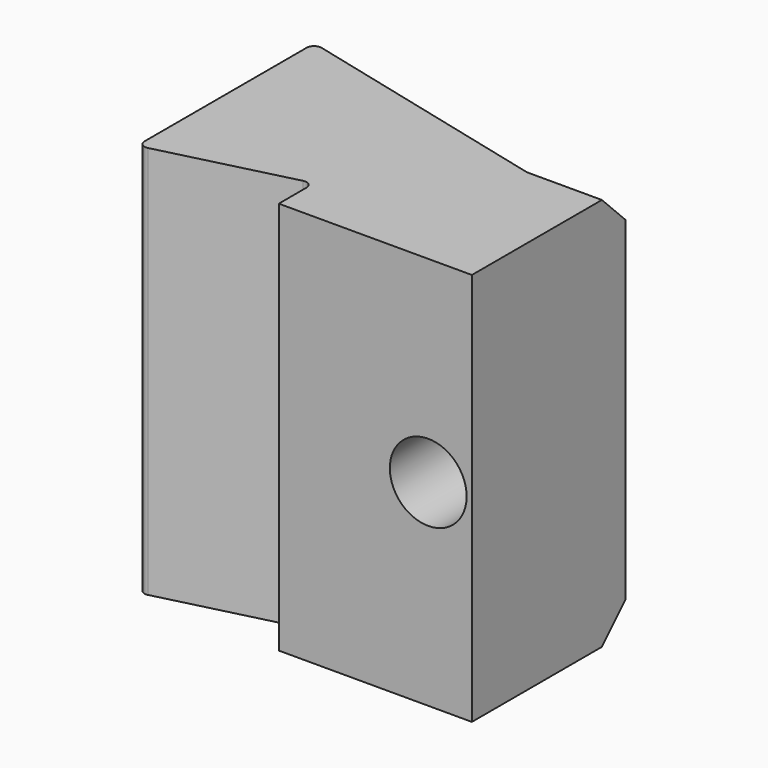
from build123d import *

# Parameters (mm, degrees)
SKETCH002_W     = 24.115805
SKETCH002_H     = 45
PAD001_DEPTH    = 8
POCKET001_DEPTH = 45.001
SKETCH004_W     = 9.473238
SKETCH004_H     = 26.16662
SKETCH004_W_2   = 10.488205
SKETCH004_H_2   = 27.344377
POCKET002_DEPTH = 23.073659
SKETCH005_R     = 2.6
POCKET003_DEPTH = 15.501
CHAMFER_SIZE    = 2
SKETCH007_W     = 5.2
SKETCH007_H     = 7
POCKET004_DEPTH = 16.5
FILLET_R        = 0.5


with BuildPart() as part:
    # Sketch002 → Pad001 (new body, symmetric)
    with BuildSketch(Plane.XZ):
        with Locations((12.214756, 0)):
            Rectangle(SKETCH002_W, SKETCH002_H)
    extrude(amount=PAD001_DEPTH, both=True)

    # Sketch003 (on Face1 of Pad001) → Pocket001 (cut, through all)
    with BuildSketch(Plane(origin=(0, 0, 22.5), x_dir=(-1, 0, 0), z_dir=(0, 0, 1))):
        Polygon((-1.2, 7.5), (-1.2, -7.5), (-11.2, -5), (-26.098127, -5), (-26.098127, -10.333512), (0.566555, -10.333512), (0.566555, 8.419309), (-11.2, 8.419309), (-11.2, 5), align=None)
    extrude(amount=-POCKET001_DEPTH, mode=Mode.SUBTRACT)

    # Sketch004 (on Face8 of Pocket001) → Pocket002 (cut, through all)
    with BuildSketch(Plane(origin=(24.272659, 0, 0), x_dir=(0, 0, 1), z_dir=(1, 0, 0))):
        with Locations((-18.054942, -4.322038)):
            Rectangle(SKETCH004_W, SKETCH004_H)
        with Locations((18.562425, -4.910916)):
            Rectangle(SKETCH004_W_2, SKETCH004_H_2)
    extrude(amount=-POCKET002_DEPTH, mode=Mode.SUBTRACT)

    # Sketch005 (on Face6 of Pocket002) → Pocket003 (cut, through all)
    with BuildSketch(Plane.XZ.offset(8)):
        with Locations((21.316544, 0)):
            Circle(SKETCH005_R)
    extrude(amount=-POCKET003_DEPTH, mode=Mode.SUBTRACT)

    # Chamfer
    chamfer_edges = [part.edges().sort_by_distance(p)[0] for p in [
        (17.73633, 5, -13.318323),
        (17.73633, 5, 13.318323),
    ]]
    chamfer(chamfer_edges, length=CHAMFER_SIZE)

    # Sketch007 (on Face7 of Chamfer) → Pocket004 (cut)
    with BuildSketch(Plane(origin=(0, 0, -13.318323), x_dir=(1, 0, 0), z_dir=(0, 0, -1))):
        with Locations((3.8, 0)):
            Rectangle(SKETCH007_W, SKETCH007_H)
    extrude(amount=-POCKET004_DEPTH, mode=Mode.SUBTRACT)

    # Fillet
    fillet_edges = [part.edges().sort_by_distance(p)[0] for p in [
        (1.2, -7.5, 0),
        (1.2, 7.5, 0),
        (11.2, -5, 0),
    ]]
    fillet(fillet_edges, radius=FILLET_R)


solid = part.part
